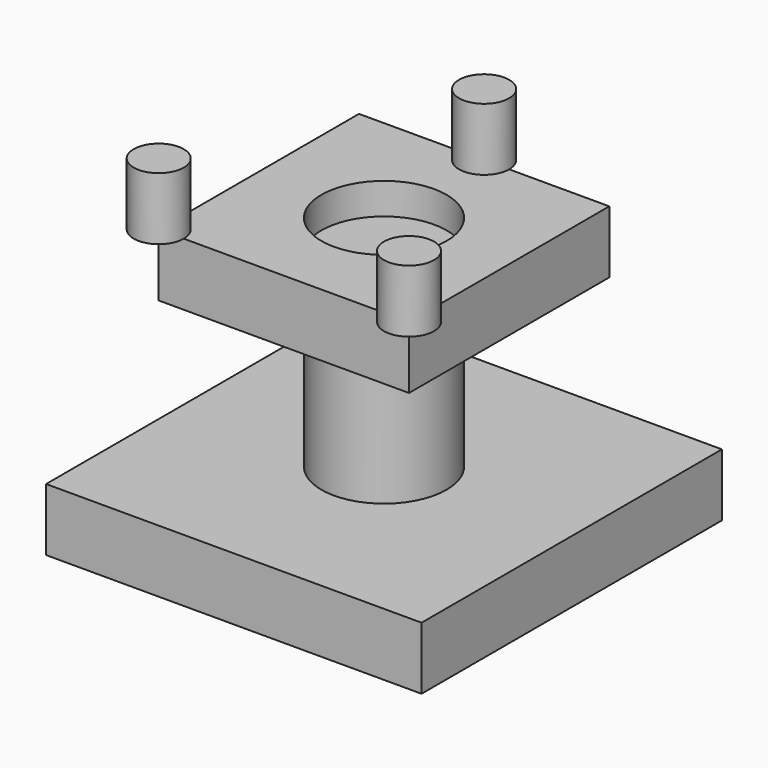
from build123d import *

# Parameters (mm, degrees)
F0_W     = 38.1
F0_H     = 38.1
F1_DEPTH = 6.35
F2_R     = 6.35
F3_DEPTH = 19.05
F4_W     = 25.4
F4_H     = 25.4
F4_R     = 6.35
F5_DEPTH = 3.175
F6_R     = 2.54
F7_DEPTH = 6.35


with BuildPart() as f1:
    # F0 (on Top) → F1 (new body)
    with BuildSketch(Plane.XY):
        with Locations((2.285996, -1.524001)):
            Rectangle(F0_W, F0_H)
    extrude(amount=F1_DEPTH)

    # F2 (on face) → F3 (join)
    with BuildSketch(Plane.XY.offset(6.35)):
        with Locations((2.285996, -1.524001)):
            Circle(F2_R)
    extrude(amount=F3_DEPTH)


with BuildPart() as f5:
    # F4 (on face) → F5 (new body, symmetric)
    with BuildSketch(Plane.XY.offset(25.4)):
        with Locations((2.285996, -1.524001)):
            Rectangle(F4_W, F4_H)
        with Locations((2.285996, -1.524001)):
            Circle(F4_R, mode=Mode.SUBTRACT)
    extrude(amount=F5_DEPTH, both=True)

    # F6 (on face) → F7 (join)
    with BuildSketch(Plane.XY.offset(28.575)):
        with Locations((-10.414004, -14.224001)):
            Circle(F6_R)
        with Locations((14.985996, -14.224001)):
            Circle(F6_R)
        with Locations((2.285996, 11.175999)):
            Circle(F6_R)
    extrude(amount=F7_DEPTH)


solid = Compound([f1.part, f5.part])
